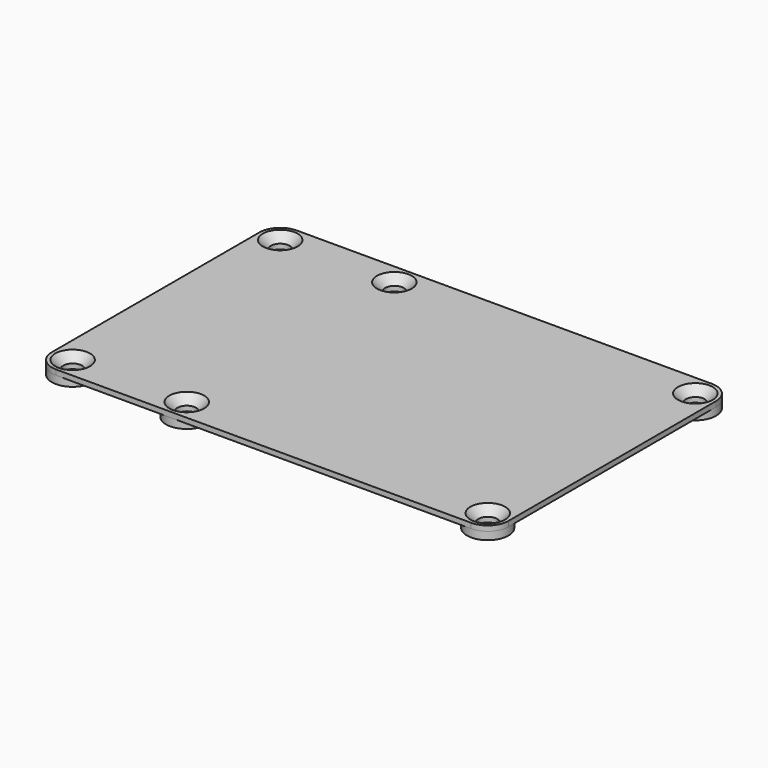
from build123d import *

# Parameters (mm, degrees)
PAD007_DEPTH            = 1
SKETCH014_R             = 4
PAD008_DEPTH            = 2.5
HOLE_D                  = 3.6
HOLE_DEPTH              = 25
HOLE_CSINK_D            = 6.7
HOLE_CSINK_ANGLE        = 90
BODY003_PLACEMENT_ANGLE = 180


with BuildPart() as part:
    # Sketch013 → Pad007 (new body)
    with BuildSketch(Plane.XY):
        with BuildLine():
            ThreePointArc((-40, 29), (-42.828427, 27.828427), (-44, 25))
            Line((-44, -25), (-44, 25))
            ThreePointArc((-44, -25), (-42.828427, -27.828427), (-40, -29))
            Line((40, -29), (-40, -29))
            ThreePointArc((40, -29), (42.828427, -27.828427), (44, -25))
            Line((44, 25), (44, -25))
            ThreePointArc((44, 25), (42.828427, 27.828427), (40, 29))
            Line((-40, 29), (40, 29))
        make_face()
    extrude(amount=PAD007_DEPTH)

    # Sketch014 → Pad008 (join)
    with BuildSketch(Plane.XY):
        with Locations((-40, 25)):
            Circle(SKETCH014_R)
        with Locations((18, 25)):
            Circle(SKETCH014_R)
        with Locations((40, 25)):
            Circle(SKETCH014_R)
        with Locations((40, -25)):
            Circle(SKETCH014_R)
        with Locations((18, -25)):
            Circle(SKETCH014_R)
        with Locations((-40, -25)):
            Circle(SKETCH014_R)
    extrude(amount=PAD008_DEPTH)

    # Hole
    with Locations(Plane(origin=(0, 0, 0), x_dir=(1, 0, 0), z_dir=(0, 0, -1))):
        with Locations((-40, -25), (18, -25), (40, -25), (40, 25), (18, 25), (-40, 25)):
            CounterSinkHole(HOLE_D / 2, HOLE_CSINK_D / 2, depth=HOLE_DEPTH, counter_sink_angle=HOLE_CSINK_ANGLE)


with BuildPart() as part_1:
    # Body003 placement: moved
    add(part.part.moved(Location((0, 0, 133.1))).rotate(Axis((0, 0, 133.1), (0, 1, 0)), BODY003_PLACEMENT_ANGLE))


solid = part_1.part
